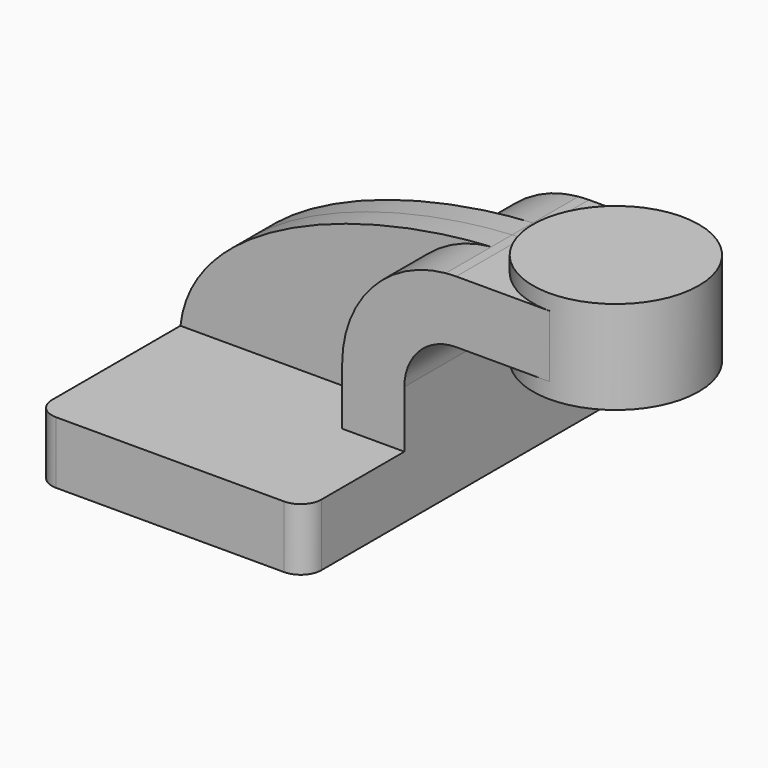
from build123d import *

# Parameters (mm, degrees)
F1_DEPTH = 63.5
F0_W     = 25.4
F0_H     = 19.05
F2_DEPTH = 25.4
F3_DEPTH = 7.9375
F5_R     = 6.35


with BuildPart() as f1:
    # F0 (on Front) → F1 (new body, symmetric)
    with BuildSketch(Plane.XZ):
        Polygon((-41.275, -9.525), (41.275, -9.525), (41.275, 9.525), (22.225, 9.525), (-41.275, 9.525), align=None)
    extrude(amount=F1_DEPTH, both=True)

    # F0 (on Front) → F2 (join, symmetric)
    with BuildSketch(Plane.XZ):
        with BuildLine():
            Line((22.225, 9.525), (41.275, 9.525))
            Line((41.275, 9.525), (41.275, 27.0002))
            ThreePointArc((41.275, 27.0002), (45.9246798487, 38.2255201513), (57.15, 42.8752))
            Line((57.15, 42.8752), (60.325, 42.8752))
            Line((60.325, 42.8752), (60.325, 61.9252))
            Line((60.325, 61.9252), (57.15, 61.9252))
            add(Edge.make_bspline(
                [(53.9597750069, 61.779189196), (55.0299567924, 61.8386731224), (56.0936979835, 61.887357431), (57.15, 61.9252)],
                knots=[108.6748378897, 108.6748378897, 108.6748378897, 108.6748378897, 111.5045361635, 111.5045361635, 111.5045361635, 111.5045361635], degree=3))
            ThreePointArc((53.9597750069, 61.779189196), (31.3510248955, 50.540983941), (22.225, 27.0002))
            Line((22.225, 27.0002), (22.225, 9.525))
        make_face()
        with Locations((73.025, 52.4002)):
            Rectangle(F0_W, F0_H)
    extrude(amount=F2_DEPTH, both=True)

    # F0 (on Front) → F3 (join, symmetric)
    with BuildSketch(Plane.XZ):
        with BuildLine():
            add(Edge.make_bspline(
                [(-41.275, 9.525), (-37.7406609847, 41.2813045311), (12.85933927, 59.494703206), (53.9597750069, 61.779189196)],
                knots=[0, 0, 0, 0, 108.6748378897, 108.6748378897, 108.6748378897, 108.6748378897], degree=3))
            Line((-41.275, 9.525), (22.225, 9.525))
            Line((22.225, 9.525), (22.225, 27.0002))
            ThreePointArc((22.225, 27.0002), (31.3510248955, 50.540983941), (53.9597750069, 61.779189196))
        make_face()
    extrude(amount=F3_DEPTH, both=True)

    # F5
    f5_edges = [f1.edges().sort_by_distance(p)[0] for p in [
        (41.275, -63.5, 0),
        (-41.275, -63.5, 0),
        (41.275, 63.5, 0),
        (-41.275, 63.5, 0),
    ]]
    fillet(f5_edges, radius=F5_R)


with BuildPart() as f4:
    # F0 (on Front) → F4 (revolve)
    with BuildSketch(Plane.XZ):
        Polygon((85.725, 61.9252), (85.725, 42.8752), (85.725, 38.1), (111.125, 38.1), (111.125, 66.675), (85.725, 66.675), align=None)
    revolve(axis=Axis((85.725, 0, 52.3875), (0, 0, 1)))


solid = Compound([f1.part, f4.part])
